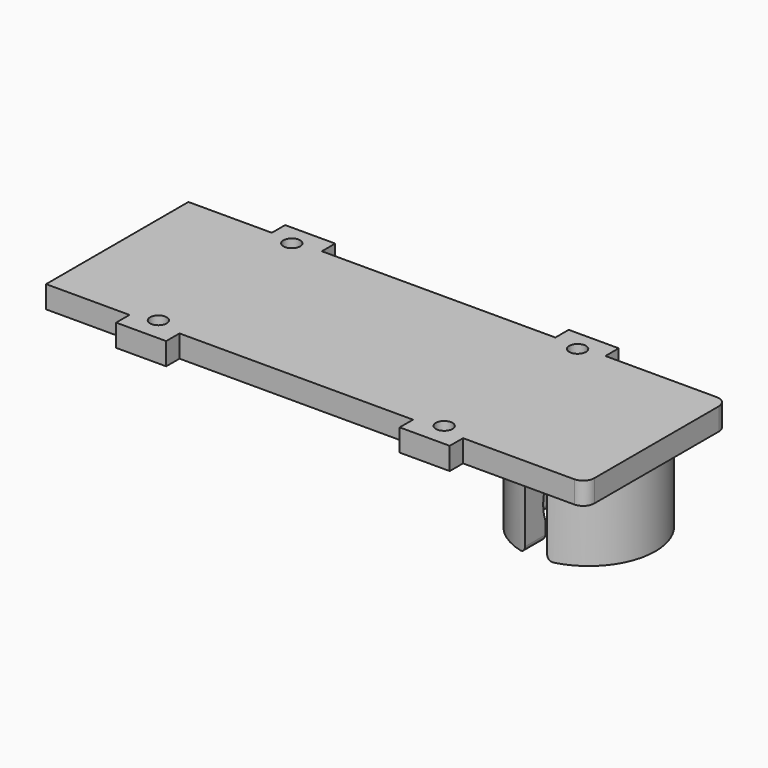
from build123d import *

# Parameters (mm, degrees)
BOX032_W          = 4
BOX032_H          = 6
BOX032_DEPTH      = 16
BOX033_W          = 4
BOX033_H          = 6
BOX033_DEPTH      = 16
CYLINDER022_R     = 7.5
CYLINDER022_DEPTH = 14
CYLINDER021_R     = 12
CYLINDER021_DEPTH = 14
FILLET005_R       = 1
FILLET006_R       = 1
CYLINDER009_R     = 1.5
CYLINDER009_DEPTH = 6
CYLINDER010_R     = 1.5
CYLINDER010_DEPTH = 6
CYLINDER011_R     = 1.5
CYLINDER011_DEPTH = 6
CYLINDER008_R     = 1.5
CYLINDER008_DEPTH = 6
BOX028_W          = 9
BOX028_H          = 3
BOX028_DEPTH      = 4
BOX029_W          = 9
BOX029_H          = 3
BOX029_DEPTH      = 4
BOX026_W          = 9
BOX026_H          = 3
BOX026_DEPTH      = 4
BOX027_W          = 9
BOX027_H          = 3
BOX027_DEPTH      = 4
BOX025_W          = 97
BOX025_H          = 32
BOX025_DEPTH      = 4
FILLET008_R       = 2


with BuildPart() as obj1:
    # Sphere → Sphere (revolve)
    with BuildSketch(Plane(origin=(39, 0, -12), x_dir=(1, 0, 0), z_dir=(0, -1, 0))):
        with BuildLine():
            ThreePointArc((0, -8), (8, 0), (0, 8))
            Line((0, 8), (0, -8))
        make_face()
    revolve(axis=Axis((39, 0, -12), (0, 0, 1)))


with BuildPart() as cubo026:
    # Box032 → Box032 (new body)
    with BuildSketch(Plane(origin=(37, -12, -19), x_dir=(1, 0, 0), z_dir=(0, 0, 1))):
        with Locations((2, 3)):
            Rectangle(BOX032_W, BOX032_H)
    extrude(amount=BOX032_DEPTH)


with BuildPart() as cubo027:
    # Box033 → Box033 (new body)
    with BuildSketch(Plane(origin=(37, 6, -19), x_dir=(1, 0, 0), z_dir=(0, 0, 1))):
        with Locations((2, 3)):
            Rectangle(BOX033_W, BOX033_H)
    extrude(amount=BOX033_DEPTH)


with BuildPart() as cilindro022:
    # Cylinder022 → Cylinder022 (new body)
    with BuildSketch(Plane(origin=(39, 0, -18), x_dir=(1, 0, 0), z_dir=(0, 0, 1))):
        Circle(CYLINDER022_R)
    extrude(amount=CYLINDER022_DEPTH)


with BuildPart() as fillet006:
    # Cylinder021 → Cylinder021 (new body)
    with BuildSketch(Plane(origin=(39, 0, -18), x_dir=(1, 0, 0), z_dir=(0, 0, 1))):
        Circle(CYLINDER021_R)
    extrude(amount=CYLINDER021_DEPTH)

    # Cut041: cut Cilindro022
    add(cilindro022.part, mode=Mode.SUBTRACT)

    # Cut042: cut Cubo027
    add(cubo027.part, mode=Mode.SUBTRACT)

    # Cut043: cut Cubo026
    add(cubo026.part, mode=Mode.SUBTRACT)

    # Cut044: cut obj1
    add(obj1.part, mode=Mode.SUBTRACT)

    # Fillet005
    fillet005_edges = [fillet006.edges().sort_by_distance(p)[0] for p in [
        (37, 9.530288, -18),
        (37, -9.530288, -18),
        (31.5, 0, -18),
    ]]
    fillet(fillet005_edges, radius=FILLET005_R)

    # Fillet006
    fillet006_edges = [fillet006.edges().sort_by_distance(p)[0] for p in [
        (41, 9.530288, -18),
        (44.968668, -4.541476, -18),
        (41, -9.530288, -18),
        (44.968668, 4.541476, -18),
    ]]
    fillet(fillet006_edges, radius=FILLET006_R)


with BuildPart() as obj2:
    # Sphere001 → Sphere001 (revolve)
    with BuildSketch(Plane(origin=(39, 0, -12), x_dir=(1, 0, 0), z_dir=(0, -1, 0))):
        with BuildLine():
            ThreePointArc((0, -8), (8, 0), (0, 8))
            Line((0, 8), (0, -8))
        make_face()
    revolve(axis=Axis((39, 0, -12), (0, 0, 1)))


with BuildPart() as cilindro009:
    # Cylinder009 → Cylinder009 (new body)
    with BuildSketch(Plane(origin=(25.6, -15.75, -4), x_dir=(1, 0, 0), z_dir=(0, 0, 1))):
        Circle(CYLINDER009_R)
    extrude(amount=CYLINDER009_DEPTH)


with BuildPart() as cilindro010:
    # Cylinder010 → Cylinder010 (new body)
    with BuildSketch(Plane(origin=(-25.8, -15.75, -4), x_dir=(1, 0, 0), z_dir=(0, 0, 1))):
        Circle(CYLINDER010_R)
    extrude(amount=CYLINDER010_DEPTH)


with BuildPart() as cilindro011:
    # Cylinder011 → Cylinder011 (new body)
    with BuildSketch(Plane(origin=(-25.8, 14.25, -4), x_dir=(1, 0, 0), z_dir=(0, 0, 1))):
        Circle(CYLINDER011_R)
    extrude(amount=CYLINDER011_DEPTH)


with BuildPart() as cilindro008:
    # Cylinder008 → Cylinder008 (new body)
    with BuildSketch(Plane(origin=(25.6, 14.25, -4), x_dir=(1, 0, 0), z_dir=(0, 0, 1))):
        Circle(CYLINDER008_R)
    extrude(amount=CYLINDER008_DEPTH)


with BuildPart() as cubo022:
    # Box028 → Box028 (new body)
    with BuildSketch(Plane(origin=(21, 15, -4), x_dir=(1, 0, 0), z_dir=(0, 0, 1))):
        with Locations((4.5, 1.5)):
            Rectangle(BOX028_W, BOX028_H)
    extrude(amount=BOX028_DEPTH)


with BuildPart() as cubo023:
    # Box029 → Box029 (new body)
    with BuildSketch(Plane(origin=(21, -20, -4), x_dir=(1, 0, 0), z_dir=(0, 0, 1))):
        with Locations((4.5, 1.5)):
            Rectangle(BOX029_W, BOX029_H)
    extrude(amount=BOX029_DEPTH)


with BuildPart() as cubo020:
    # Box026 → Box026 (new body)
    with BuildSketch(Plane(origin=(-30, 15, -4), x_dir=(1, 0, 0), z_dir=(0, 0, 1))):
        with Locations((4.5, 1.5)):
            Rectangle(BOX026_W, BOX026_H)
    extrude(amount=BOX026_DEPTH)


with BuildPart() as cubo021:
    # Box027 → Box027 (new body)
    with BuildSketch(Plane(origin=(-30, -20, -4), x_dir=(1, 0, 0), z_dir=(0, 0, 1))):
        with Locations((4.5, 1.5)):
            Rectangle(BOX027_W, BOX027_H)
    extrude(amount=BOX027_DEPTH)


with BuildPart() as obj3:
    # Box025 → Box025 (new body)
    with BuildSketch(Plane(origin=(-45, -17, -4), x_dir=(1, 0, 0), z_dir=(0, 0, 1))):
        with Locations((48.5, 16)):
            Rectangle(BOX025_W, BOX025_H)
    extrude(amount=BOX025_DEPTH)

    # Fusion008: union Cubo020, Cubo021
    add(cubo020.part)
    add(cubo021.part)

    # Fusion009: union Cubo022, Cubo023
    add(cubo022.part)
    add(cubo023.part)

    # Cut021: cut Cilindro008
    add(cilindro008.part, mode=Mode.SUBTRACT)

    # Cut022: cut Cilindro011
    add(cilindro011.part, mode=Mode.SUBTRACT)

    # Cut023: cut Cilindro010
    add(cilindro010.part, mode=Mode.SUBTRACT)

    # Cut024: cut Cilindro009
    add(cilindro009.part, mode=Mode.SUBTRACT)

    # Cut040: cut obj2
    add(obj2.part, mode=Mode.SUBTRACT)

    # Fusion010: union Fillet006
    add(fillet006.part)

    # Fillet008
    fillet008_edges = [obj3.edges().sort_by_distance(p)[0] for p in [
        (52, -17, -2),
        (52, 15, -2),
    ]]
    fillet(fillet008_edges, radius=FILLET008_R)


solid = obj3.part
